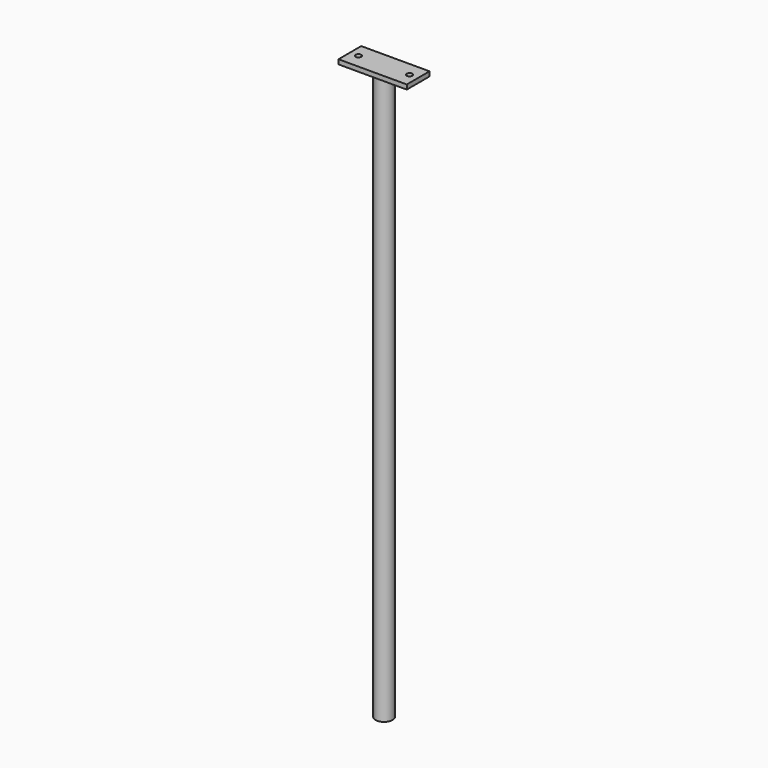
from build123d import *

# Parameters (mm, degrees)
F0_W     = 12
F0_H     = 5
F0_R     = 0.5
F1_DEPTH = 0.8
F2_R     = 1.5
F2_R_2   = 1.25
F3_DEPTH = 100


with BuildPart() as f1:
    # F0 (on Top) → F1 (new body)
    with BuildSketch(Plane.XY):
        Rectangle(F0_W, F0_H)
        with Locations((-4.5, 0)):
            Circle(F0_R, mode=Mode.SUBTRACT)
        with Locations((4.5, 0)):
            Circle(F0_R, mode=Mode.SUBTRACT)
    extrude(amount=F1_DEPTH)

    # F2 (on Top) → F3 (join)
    with BuildSketch(Plane.XY):
        Circle(F2_R)
        Circle(F2_R_2, mode=Mode.SUBTRACT)
    extrude(amount=-F3_DEPTH)


solid = f1.part
